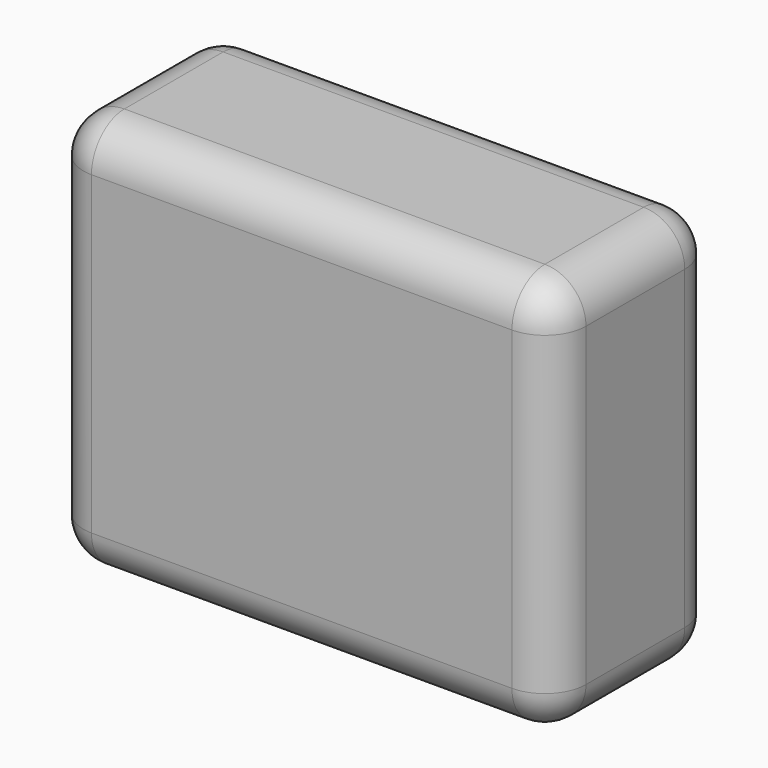
from build123d import *

# Parameters (mm, degrees)
F0_W     = 93.1164
F0_H     = 73.66
F1_DEPTH = 19.05
F2_R     = 7.62
F3_R     = 7.62
F4_R     = 7.62


with BuildPart() as f1:
    # F0 (on Front) → F1 (new body, symmetric)
    with BuildSketch(Plane.XZ):
        Rectangle(F0_W, F0_H)
    extrude(amount=F1_DEPTH, both=True)

    # F2
    f2_edges = [f1.edges().sort_by_distance(p)[0] for p in [
        (-46.5582, 0, -36.83),
        (-46.5582, 0, 36.83),
        (46.5582, 0, -36.83),
        (46.5582, 0, 36.83),
    ]]
    fillet(f2_edges, radius=F2_R)

    # F3
    f3_edges = [f1.edges().sort_by_distance(p)[0] for p in [
        (44.326354, -19.05, -34.598154),
        (0, -19.05, -36.83),
        (46.5582, -19.05, 0),
        (44.326354, -19.05, 34.598154),
        (0, -19.05, 36.83),
        (-44.326354, -19.05, 34.598154),
        (-46.5582, -19.05, 0),
        (-44.326354, -19.05, -34.598154),
    ]]
    fillet(f3_edges, radius=F3_R)

    # F4
    f4_edges = [f1.edges().sort_by_distance(p)[0] for p in [
        (44.326354, 19.05, -34.598154),
        (0, 19.05, -36.83),
        (46.5582, 19.05, 0),
        (-44.326354, 19.05, -34.598154),
        (-46.5582, 19.05, 0),
        (-44.326354, 19.05, 34.598154),
        (0, 19.05, 36.83),
        (44.326354, 19.05, 34.598154),
    ]]
    fillet(f4_edges, radius=F4_R)


solid = f1.part
